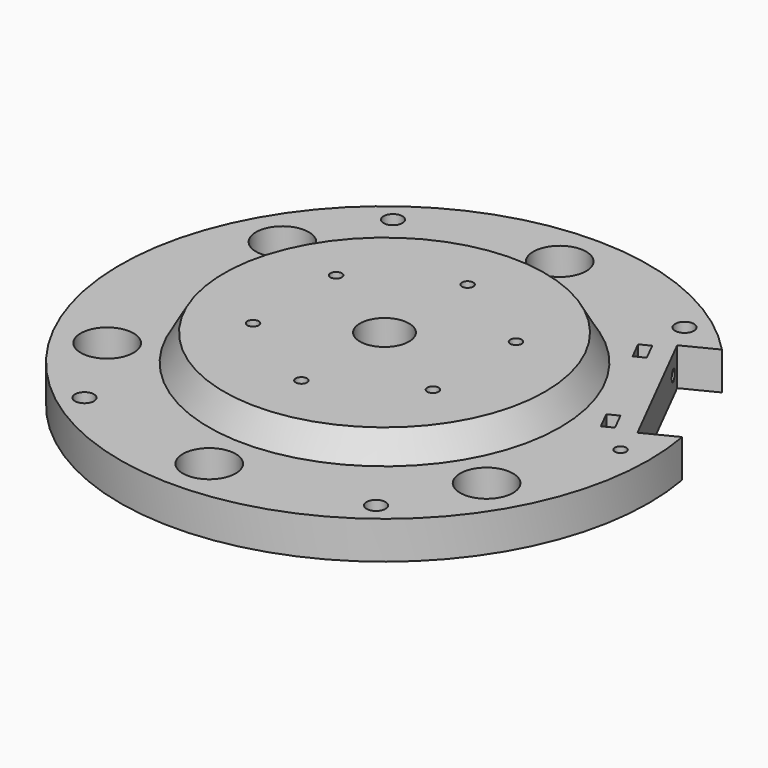
from build123d import *

# Parameters (mm, degrees)
SKETCH_R           = 70
SKETCH_R_2         = 2.5
PAD_DEPTH          = 10
SKETCH002_R        = 7
POCKET_DEPTH       = 11
SKETCH003_R        = 1.5
POCKET001_DEPTH    = 20
POCKET002_DEPTH    = 12
SKETCH005_R        = 1.5
POCKET003_DEPTH    = 12
POCKET004_DEPTH    = 12
SKETCH007_R        = 1.5
POCKET005_DEPTH    = 20
POCKET006_DEPTH    = 5
POLARPATTERN_COUNT = 6
SKETCH009_R        = 6.5
POCKET007_DEPTH    = 20
POCKET008_DEPTH    = 4


with BuildPart() as part:
    # Sketch → Pad (new body)
    with BuildSketch(Plane.XY):
        Circle(SKETCH_R)
        with Locations((-38.6, 51.05)):
            Circle(SKETCH_R_2, mode=Mode.SUBTRACT)
        with Locations((38.6, 51.05)):
            Circle(SKETCH_R_2, mode=Mode.SUBTRACT)
        with Locations((-38.6, -51.05)):
            Circle(SKETCH_R_2, mode=Mode.SUBTRACT)
        with Locations((38.6, -51.05)):
            Circle(SKETCH_R_2, mode=Mode.SUBTRACT)
    extrude(amount=PAD_DEPTH)

    # Sketch001 → Revolution (revolve)
    with BuildSketch(Plane.XZ):
        Polygon((0, 10), (46.5, 10), (42.5, 17), (0, 17), align=None)
    revolve(axis=Axis((0, 0, 0), (0, 0, 1)))

    # Sketch002 (on Face3 of Revolution) → Pocket (cut)
    with BuildSketch(Plane.XY.offset(10)):
        with Locations((0, -58)):
            Circle(SKETCH002_R)
        with Locations((-50.2294734195, 29)):
            Circle(SKETCH002_R)
        with Locations((-50.2294734195, -29)):
            Circle(SKETCH002_R)
        with Locations((50.2294734195, -29)):
            Circle(SKETCH002_R)
        with Locations((0, 58)):
            Circle(SKETCH002_R)
    extrude(amount=-POCKET_DEPTH, mode=Mode.SUBTRACT)

    # Sketch003 (on Face14 of Pocket) → Pocket001 (cut)
    with BuildSketch(Plane.XY.offset(17)):
        with Locations((0, 27.5)):
            Circle(SKETCH003_R)
        with Locations((23.8156986041, 13.75)):
            Circle(SKETCH003_R)
        with Locations((23.8156986041, -13.75)):
            Circle(SKETCH003_R)
        with Locations((0, -27.5)):
            Circle(SKETCH003_R)
        with Locations((-23.8156986041, -13.75)):
            Circle(SKETCH003_R)
        with Locations((-23.8156986041, 13.75)):
            Circle(SKETCH003_R)
    extrude(amount=-POCKET001_DEPTH, mode=Mode.SUBTRACT)

    # Sketch004 (on Face3 of Pocket001) → Pocket002 (cut)
    with BuildSketch(Plane.XY.offset(10)):
        with BuildLine():
            Line((60.4572715312, 8.1323563009), (68.8940277881, 12.3940685462))
            ThreePointArc((68.8940277881, 12.3940685462), (62.4810072916, 31.5614278483), (50.8589261605, 48.0975012843))
            Line((42.4221699036, 43.835789039), (50.8589261605, 48.0975012843))
            Line((42.4221699036, 43.835789039), (60.4572715312, 8.1323563009))
        make_face()
    extrude(amount=-POCKET002_DEPTH, mode=Mode.SUBTRACT)

    # Sketch005 (on Face4 of Pocket002) → Pocket003 (cut)
    with BuildSketch(Plane.XY.offset(10)):
        with Locations((62.5, 0)):
            Circle(SKETCH005_R)
    extrude(amount=-POCKET003_DEPTH, mode=Mode.SUBTRACT)

    # Sketch006 (on Face4 of Pocket003) → Pocket004 (cut)
    with BuildSketch(Plane.XY.offset(10)):
        Polygon((35.8450802819, 39.1130364404), (38.5228377372, 40.4656690625), (41.002664211, 35.556447061), (38.3249067556, 34.2038144389), align=None)
        Polygon((50.2731615839, 10.5502902499), (52.9509190393, 11.902922872), (55.4307455131, 6.9937008705), (52.7529880577, 5.6410682484), align=None)
    extrude(amount=-POCKET004_DEPTH, mode=Mode.SUBTRACT)

    # Sketch007 (on Face7 of Pocket004) → Pocket005 (cut)
    with BuildSketch(Plane(origin=(51.4397207174, 25.9840726699, 0), x_dir=(-0.4508775407, 0.8925858185, 0), z_dir=(0.8925858185, 0.4508775407, 0))):
        with Locations((-16, 5)):
            Circle(SKETCH007_R)
        with Locations((16, 5)):
            Circle(SKETCH007_R)
    extrude(amount=-POCKET005_DEPTH, mode=Mode.SUBTRACT)

    # Sketch008 (on Face2 of Pocket005) → Pocket006 (cut)
    with BuildSketch(Plane(origin=(0, 0, 0), x_dir=(1, 0, 0), z_dir=(0, 0, -1))):
        Polygon((-1.5588457268, 24.8), (1.5588457268, 24.8), (3.1176914536, 27.5), (1.5588457268, 30.2), (-1.5588457268, 30.2), (-3.1176914536, 27.5), align=None)
    pocket006 = extrude(amount=-POCKET006_DEPTH, mode=Mode.SUBTRACT)

    # PolarPattern: Pocket006 ×6 about axis
    polarpattern_axis = Axis((0, 0, 0), (0, 0, -1))
    for i in range(1, POLARPATTERN_COUNT):
        add(pocket006.rotate(polarpattern_axis, i * 360 / POLARPATTERN_COUNT), mode=Mode.SUBTRACT)

    # Sketch009 (on Face73 of PolarPattern) → Pocket007 (cut)
    with BuildSketch(Plane.XY.offset(17)):
        Circle(SKETCH009_R)
    extrude(amount=-POCKET007_DEPTH, mode=Mode.SUBTRACT)

    # Sketch010 (on Face2 of Pocket007) → Pocket008 (cut)
    with BuildSketch(Plane(origin=(0, 0, 0), x_dir=(1, 0, 0), z_dir=(0, 0, -1))):
        Polygon((65.2, -1.5588457268), (65.2, 1.5588457268), (62.5, 3.1176914536), (59.8, 1.5588457268), (59.8, -1.5588457268), (62.5, -3.1176914536), align=None)
    extrude(amount=-POCKET008_DEPTH, mode=Mode.SUBTRACT)


solid = part.part
